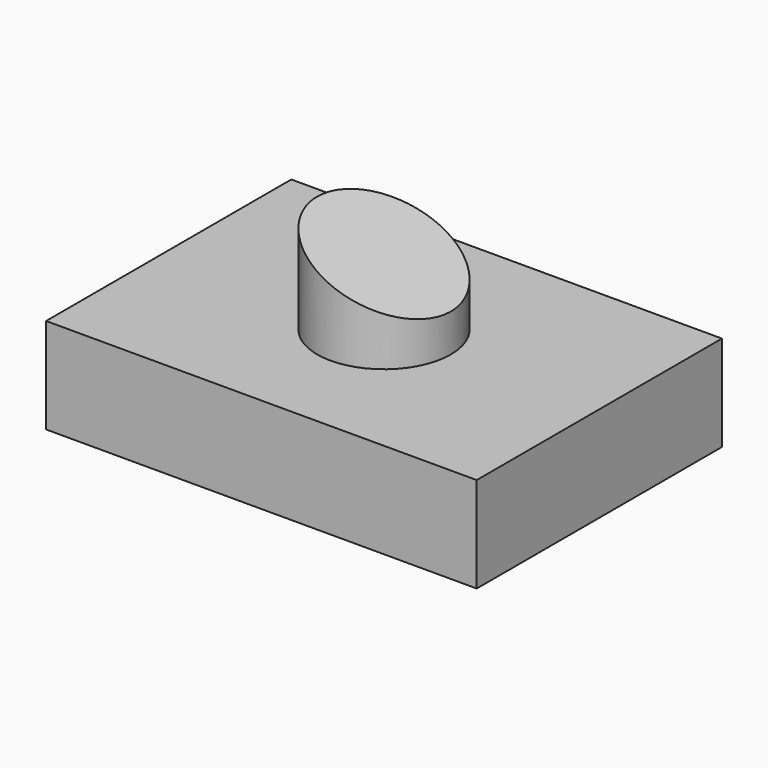
from build123d import *

# Parameters (mm, degrees)
F0_W     = 114.530914
F0_H     = 81.510908
F1_DEPTH = 25.4
F2_R     = 17.783374
F3_DEPTH = 25.4
F5_DEPTH = 38.1


with BuildPart() as f1:
    # F0 (on Top) → F1 (new body)
    with BuildSketch(Plane.XY):
        Rectangle(F0_W, F0_H)
    extrude(amount=F1_DEPTH)

    # F2 (on face) → F3 (join)
    with BuildSketch(Plane.XY.offset(25.4)):
        Circle(F2_R)
    extrude(amount=F3_DEPTH)

    # F4 (on Front) → F5 (cut, symmetric)
    with BuildSketch(Plane.XZ):
        Polygon((17.783374, 50.8), (-17.783374, 50.8), (17.783374, 35.462245), align=None)
    extrude(amount=F5_DEPTH, both=True, mode=Mode.SUBTRACT)


solid = f1.part
